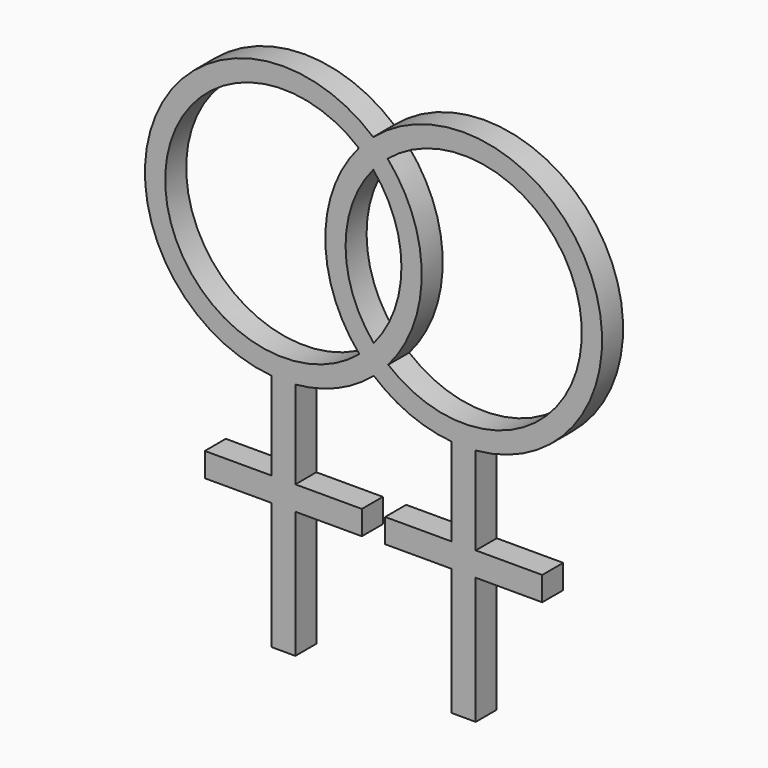
from build123d import *

# Parameters (mm, degrees)
F1_DEPTH = 1.2


with BuildPart() as f1:
    # F0 (on Front) → F1 (new body)
    with BuildSketch(Plane.XZ):
        with BuildLine():
            Line((-22.558661, 13.532754), (-22.558661, 17.550706))
            ThreePointArc((-22.558661, 17.550706), (-20.646676, 18.025718), (-18.973681, 19.066109))
            ThreePointArc((-18.973681, 19.066109), (-17.31198, 18.043084), (-15.41748, 17.575431))
            Line((-15.41748, 17.575431), (-15.41748, 13.55748))
            Line((-15.41748, 13.55748), (-18.455535, 13.55748))
            Line((-18.455535, 13.55748), (-18.455535, 12.45748))
            Line((-18.455535, 12.45748), (-15.41748, 12.45748))
            Line((-15.41748, 12.45748), (-15.41748, 6.657985))
            Line((-15.41748, 6.657985), (-14.31748, 6.657985))
            Line((-14.31748, 6.657985), (-14.31748, 12.45748))
            Line((-14.31748, 12.45748), (-11.279425, 12.45748))
            Line((-11.279425, 12.45748), (-11.279425, 13.55748))
            Line((-11.279425, 13.55748), (-14.31748, 13.55748))
            Line((-14.31748, 13.55748), (-14.31748, 17.575431))
            ThreePointArc((-14.31748, 17.575431), (-9.043176, 26.336733), (-19.002461, 28.658661))
            ThreePointArc((-19.002461, 28.658661), (-28.940326, 26.294523), (-23.658661, 17.550706))
            Line((-23.658661, 17.550706), (-23.658661, 13.532754))
            Line((-23.658661, 13.532754), (-26.696716, 13.532754))
            Line((-26.696716, 13.532754), (-26.696716, 12.432754))
            Line((-26.696716, 12.432754), (-23.658661, 12.432754))
            Line((-23.658661, 12.432754), (-23.658661, 6.63326))
            Line((-23.658661, 6.63326), (-22.558661, 6.63326))
            Line((-22.558661, 6.63326), (-22.558661, 12.432754))
            Line((-22.558661, 12.432754), (-19.520607, 12.432754))
            Line((-19.520607, 12.432754), (-19.520607, 13.532754))
            Line((-19.520607, 13.532754), (-22.558661, 13.532754))
        make_face()
        with BuildLine():
            ThreePointArc((-19.634369, 19.720153), (-28.505536, 23.833831), (-19.659213, 28.000664))
            ThreePointArc((-19.659213, 28.000664), (-21.190733, 23.855777), (-19.634369, 19.720153))
        make_face(mode=Mode.SUBTRACT)
        with BuildLine():
            ThreePointArc((-18.977614, 20.377132), (-20.264355, 23.858556), (-18.998527, 27.347639))
            ThreePointArc((-18.998527, 27.347639), (-17.711786, 23.866214), (-18.977614, 20.377132))
        make_face(mode=Mode.SUBTRACT)
        with BuildLine():
            ThreePointArc((-18.341772, 28.004617), (-9.470605, 23.89094), (-18.316929, 19.724106))
            ThreePointArc((-18.316929, 19.724106), (-16.785408, 23.868994), (-18.341772, 28.004617))
        make_face(mode=Mode.SUBTRACT)
    extrude(amount=F1_DEPTH)


solid = f1.part
